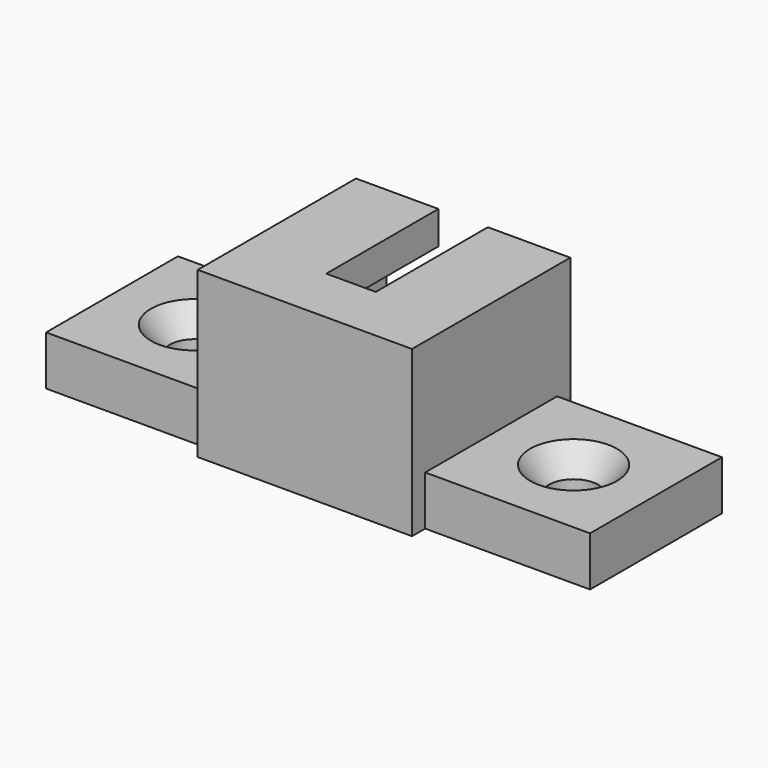
from build123d import *

# Parameters (mm, degrees)
SKETCH_W     = 13
SKETCH_H     = 10
PAD_DEPTH    = 12
POCKET_DEPTH = 8.5
SKETCH002_W  = 3
SKETCH002_H  = 10
PAD001_DEPTH = 10


with BuildPart() as part:
    # Sketch → Pad (new body)
    with BuildSketch(Plane.XZ):
        with Locations((0, -3)):
            Rectangle(SKETCH_W, SKETCH_H)
    extrude(amount=PAD_DEPTH)

    # Sketch001 → Pocket (cut)
    with BuildSketch(Plane(origin=(0, 0, 0), x_dir=(-1, 0, 0), z_dir=(0, 1, 0))):
        Polygon((-1.5, 5.906373), (1.5, 5.906373), (1.5, 0), (4.65, 0), (4.65, -8.83584), (-4.65, -8.83584), (-4.65, 0), (-1.5, 0), align=None)
    extrude(amount=-POCKET_DEPTH, mode=Mode.SUBTRACT)

    # Sketch002 (on Face7 of Pocket) → Pad001 (join)
    with BuildSketch(Plane(origin=(6.5, 0, 0), x_dir=(0, 0, 1), z_dir=(1, 0, 0))):
        with Locations((-6.5, 6)):
            Rectangle(SKETCH002_W, SKETCH002_H)
    pad001 = extrude(amount=PAD001_DEPTH)

    # Sketch003 (on DatumPlane) → Groove (revolve, cut)
    with BuildSketch(Plane.YZ.offset(11.5)):
        Polygon((-6, -5), (-8.636665, -5), (-7.5, -6.55), (-7.5, -10.559105), (-6, -10.559105), align=None)
    groove = revolve(axis=Axis((11.5, -6, -3.810725), (0, 0, -1)), mode=Mode.SUBTRACT)

    # Mirrored: Pad001, Groove across YZ
    add(pad001.mirror(Plane.YZ))
    add(groove.mirror(Plane.YZ), mode=Mode.SUBTRACT)


solid = part.part
